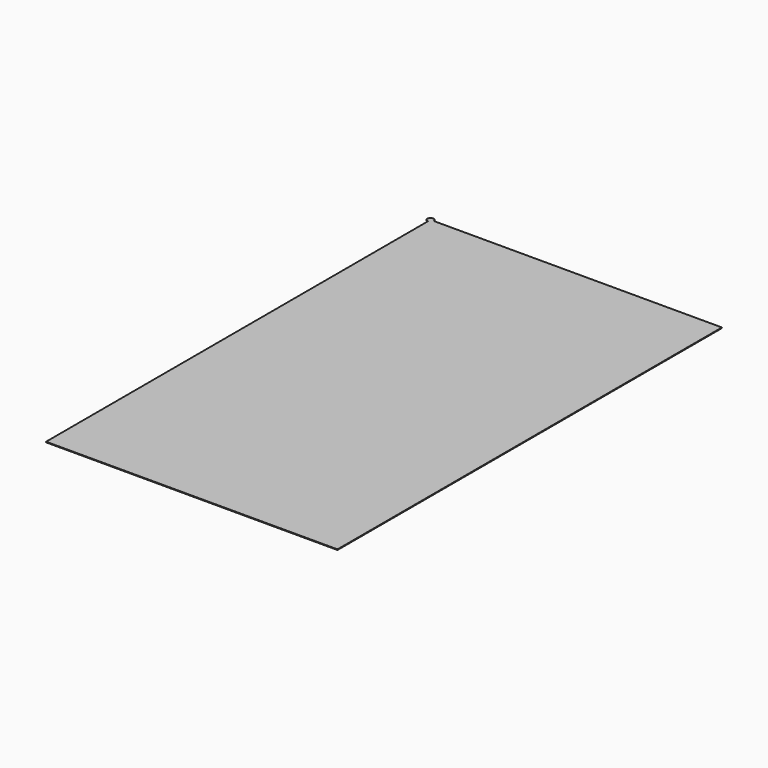
from build123d import *

# Parameters (mm, degrees)
CYLINDER_R     = 1
CYLINDER_DEPTH = 0.2
BOX003_W       = 94
BOX003_H       = 155
BOX003_DEPTH   = 0.2


with BuildPart() as cylinder:
    # Cylinder → Cylinder (new body)
    with BuildSketch(Plane(origin=(-18, 12, 13.9), x_dir=(1, 0, 0), z_dir=(0, 0, 1))):
        Circle(CYLINDER_R)
    extrude(amount=CYLINDER_DEPTH)


with BuildPart() as fusion:
    # Box003 → Box003 (new body)
    with BuildSketch(Plane(origin=(-18, -143, 13.9), x_dir=(1, 0, 0), z_dir=(0, 0, 1))):
        with Locations((47, 77.5)):
            Rectangle(BOX003_W, BOX003_H)
    extrude(amount=BOX003_DEPTH)

    # Fusion: union Cylinder
    add(cylinder.part)


solid = fusion.part
